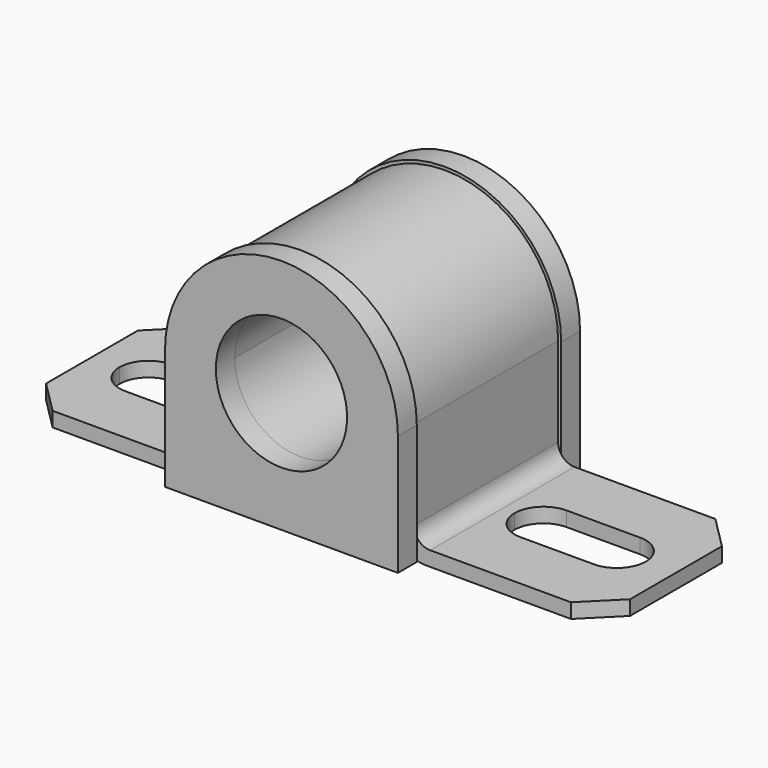
from build123d import *

# Parameters (mm, degrees)
F0_R      = 12.7
F2_DEPTH  = 34.925
F4_DEPTH  = 4.572
F5_DEPTH  = 34.925
F6_R      = 3.175
F7_R      = 5.08
F9_DEPTH  = 45.848
F10_SIZE  = 6.35
F12_DEPTH = 4.572
F13_R     = 12.7
F14_DEPTH = 44.07


with BuildPart() as f2:
    # F0 (on Front) → F2 (new body)
    with BuildSketch(Plane.XZ):
        with BuildLine():
            Line((19.1135, -23.3045), (19.1135, 0))
            ThreePointArc((19.1135, 0), (0, 19.1135), (-19.1135, 0))
            Line((-19.1135, 0), (-19.1135, -23.3045))
            Line((-19.1135, -23.3045), (19.1135, -23.3045))
        make_face()
        Circle(F0_R, mode=Mode.SUBTRACT)
        with BuildLine():
            Line((19.1135, -23.3045), (19.1135, 0))
            ThreePointArc((19.1135, 0), (0, 19.1135), (-19.1135, 0))
            Line((-19.1135, 0), (-19.1135, -23.3045))
            Line((-19.1135, -23.3045), (19.1135, -23.3045))
        make_face()
        Circle(F0_R, mode=Mode.SUBTRACT)
        with BuildLine():
            Line((19.1135, -23.3045), (19.1135, 0))
            ThreePointArc((19.1135, 0), (0, 19.1135), (-19.1135, 0))
            Line((-19.1135, 0), (-19.1135, -23.3045))
            Line((-19.1135, -23.3045), (19.1135, -23.3045))
        make_face()
        Circle(F0_R, mode=Mode.SUBTRACT)
    extrude(amount=F2_DEPTH)

    # F1 (on Front) → F4 (join)
    with BuildSketch(Plane.XZ):
        with BuildLine():
            Line((-22.5425, 0), (-22.5425, -23.3045))
            Line((-22.5425, -23.3045), (22.5425, -23.3045))
            Line((22.5425, -23.3045), (22.5425, 0))
            ThreePointArc((22.5425, 0), (0, 22.5425), (-22.5425, 0))
        make_face()
    extrude(amount=-F4_DEPTH)

    # F11 (on face) → F12 (join)
    with BuildSketch(Plane.XZ.offset(34.925)):
        with BuildLine():
            Line((-22.5425, 0), (-22.5425, -23.3045))
            Line((-22.5425, -23.3045), (22.5425, -23.3045))
            Line((22.5425, -23.3045), (22.5425, 0))
            ThreePointArc((22.5425, 0), (0, 22.5425), (-22.5425, 0))
        make_face()
    extrude(amount=F12_DEPTH)

    # F13 (on face) → F14 (cut, through all)
    with BuildSketch(Plane(origin=(0, 4.572, 0), x_dir=(-1, 0, 0), z_dir=(0, 1, 0))):
        Circle(F13_R)
    extrude(amount=-F14_DEPTH, mode=Mode.SUBTRACT)


with BuildPart() as f5:
    # F3 (on Front) → F5 (new body, through all)
    with BuildSketch(Plane.XZ):
        with BuildLine():
            Line((19.1135, 0), (19.1135, -23.3045))
            Line((19.1135, -23.3045), (58.7375, -23.3045))
            Line((58.7375, -23.3045), (58.7375, -20.4597))
            Line((58.7375, -20.4597), (21.9583, -20.4597))
            Line((21.9583, -20.4597), (21.9583, 0))
            ThreePointArc((21.9583, 0), (0, 21.9583), (-21.9583, 0))
            Line((-21.9583, 0), (-21.9583, -20.4597))
            Line((-21.9583, -20.4597), (-54.2925, -20.4597))
            Line((-54.2925, -20.4597), (-54.2925, -23.3045))
            Line((-54.2925, -23.3045), (-19.1135, -23.3045))
            Line((-19.1135, -23.3045), (-19.1135, 0))
            ThreePointArc((-19.1135, 0), (0, 19.1135), (19.1135, 0))
        make_face()
    extrude(amount=F5_DEPTH)

    # F6
    f6_edges = [f5.edges().sort_by_distance(p)[0] for p in [
        (-21.9583, -17.4625, -20.4597),
        (21.9583, -17.4625, -20.4597),
    ]]
    fillet(f6_edges, radius=F6_R)

    # F7
    f7_edges = [f5.edges().sort_by_distance(p)[0] for p in [
        (-19.1135, -17.4625, -23.3045),
        (19.1135, -17.4625, -23.3045),
    ]]
    fillet(f7_edges, radius=F7_R)

    # F8 (on face) → F9 (cut, through all)
    with BuildSketch(Plane(origin=(0, 0, -23.3045), x_dir=(1, 0, 0), z_dir=(0, 0, -1))):
        with BuildLine():
            ThreePointArc((-29.1525, 11.8725000002), (-25.1997730932, 13.5097730933), (-23.5625, 17.4625000002))
            Line((-23.5625, 17.4625000002), (-48.9625, 17.4625000002))
            ThreePointArc((-48.9625, 17.4625000002), (-47.3252269068, 13.5097730933), (-43.3725, 11.8725000002))
            Line((-43.3725, 11.8725000002), (-29.1525, 11.8725000002))
        make_face()
        with BuildLine():
            Line((-48.9625, 17.4625000002), (-23.5625, 17.4625000002))
            ThreePointArc((-23.5625, 17.4625000002), (-25.1997730932, 21.415226907), (-29.1525, 23.0525000002))
            Line((-29.1525, 23.0525000002), (-43.3725, 23.0525000002))
            ThreePointArc((-43.3725, 23.0525000002), (-47.3252269068, 21.415226907), (-48.9625, 17.4625000002))
        make_face()
        with BuildLine():
            Line((33.0875, 11.8725000002), (47.3075, 11.8725000002))
            ThreePointArc((47.3075, 11.8725000002), (51.2602269068, 13.5097730933), (52.8975, 17.4625000002))
            Line((52.8975, 17.4625000002), (27.4975, 17.4625000002))
            ThreePointArc((27.4975, 17.4625000002), (29.1347730932, 13.5097730933), (33.0875, 11.8725000002))
        make_face()
        with BuildLine():
            Line((27.4975, 17.4625000002), (52.8975, 17.4625000002))
            ThreePointArc((52.8975, 17.4625000002), (51.2602269068, 21.415226907), (47.3075, 23.0525000002))
            Line((47.3075, 23.0525000002), (33.0875, 23.0525000002))
            ThreePointArc((33.0875, 23.0525000002), (29.1347730932, 21.415226907), (27.4975, 17.4625000002))
        make_face()
    extrude(amount=-F9_DEPTH, mode=Mode.SUBTRACT)

    # F10
    f10_edges = [f5.edges().sort_by_distance(p)[0] for p in [
        (-54.2925, -34.925, -21.8821),
        (58.7375, -34.925, -21.8821),
        (-54.2925, 0, -21.8821),
        (58.7375, 0, -21.8821),
    ]]
    chamfer(f10_edges, length=F10_SIZE)


solid = Compound([f2.part, f5.part])
